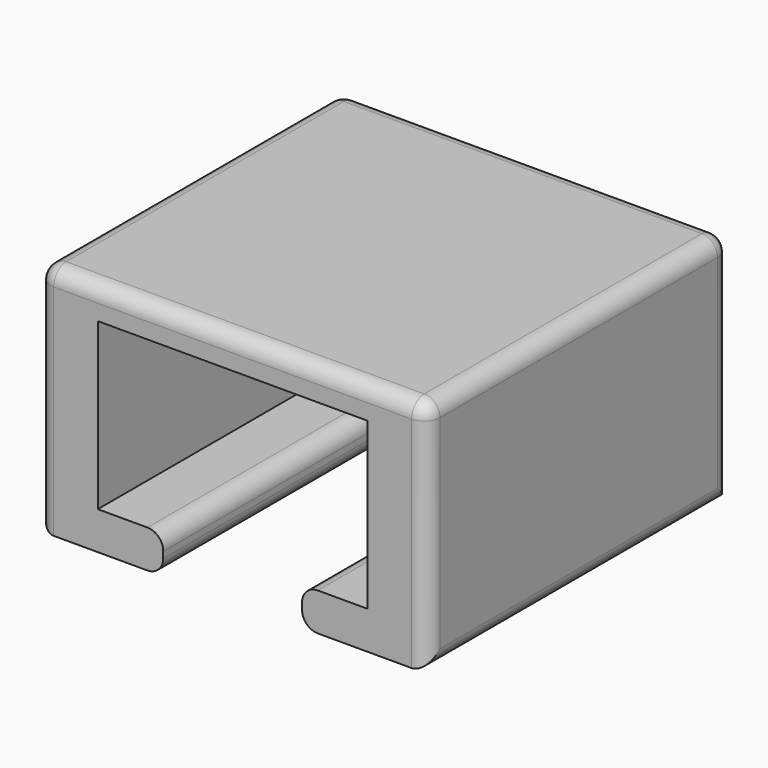
from build123d import *

# Parameters (mm, degrees)
F1_DEPTH = 6
F2_R     = 0.5
F3_R     = 0.5


with BuildPart() as f1:
    # F0 (on Front) → F1 (new body, symmetric)
    with BuildSketch(Plane.XZ):
        Polygon((6.175, -4.5523648744), (6.175, 2.8976351256), (-6.175, 2.8976351256), (-6.175, -4.5523648744), (-2.2, -4.5523648744), (-2.2, -3.3523648744), (-4.275, -3.3523648744), (-4.275, 1.8976351256), (4.275, 1.8976351256), (4.275, -3.3523648744), (2.2, -3.3523648744), (2.2, -4.5523648744), align=None)
    extrude(amount=F1_DEPTH, both=True)

    # F2
    f2_edges = [f1.edges().sort_by_distance(p)[0] for p in [
        (-2.2, 0, -4.552365),
        (2.2, 0, -4.552365),
        (-2.2, 0, -3.352365),
        (2.2, 0, -3.352365),
    ]]
    fillet(f2_edges, radius=F2_R)

    # F3
    f3_edges = [f1.edges().sort_by_distance(p)[0] for p in [
        (6.175, 0, -4.552365),
        (6.175, 6, -0.827365),
        (6.175, 0, 2.897635),
        (6.175, -6, -0.827365),
        (0, 6, 2.897635),
        (-6.175, 0, 2.897635),
        (0, -6, 2.897635),
        (-6.175, 6, -0.827365),
        (-6.175, 0, -4.552365),
        (-6.175, -6, -0.827365),
    ]]
    fillet(f3_edges, radius=F3_R)


solid = f1.part
